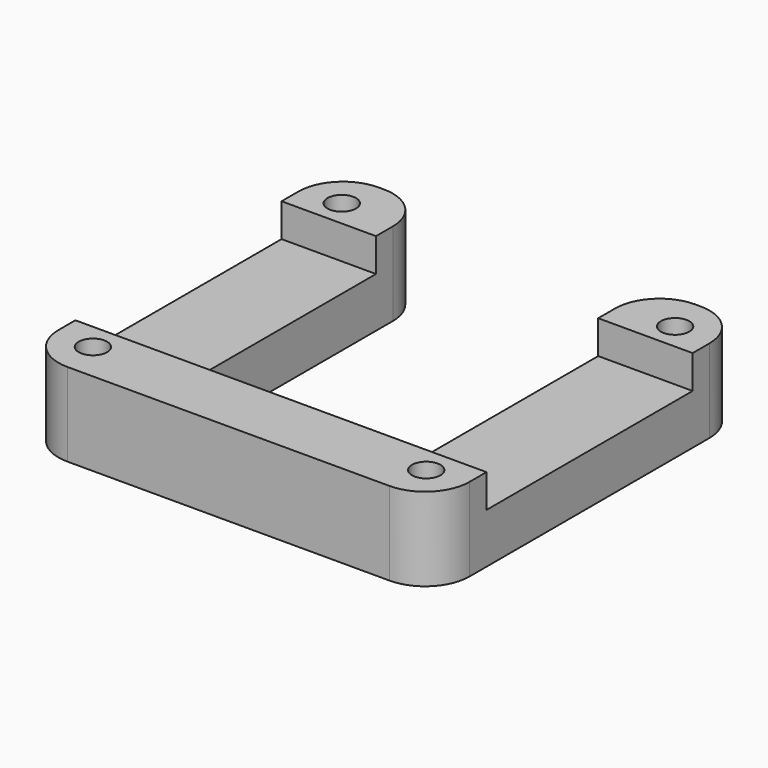
from build123d import *

# Parameters (mm, degrees)
F0_R     = 1.6256
F1_DEPTH = 9.525
F2_W     = 46.99
F2_H     = 29.464
F3_DEPTH = 3.81
F5_DEPTH = 4.064


with BuildPart() as f1:
    # F0 (on Top) → F1 (new body)
    with BuildSketch(Plane.XY):
        with BuildLine():
            ThreePointArc((23.495, 17.145), (22.007102, 20.737102), (18.415, 22.225))
            Line((18.415, 22.225), (17.78, 22.225))
            ThreePointArc((17.78, 22.225), (14.187898, 20.737102), (12.7, 17.145))
            Line((12.7, 17.145), (12.7, -10.16))
            ThreePointArc((12.7, -10.16), (11.956051, -11.956051), (10.16, -12.7))
            Line((10.16, -12.7), (-10.16, -12.7))
            ThreePointArc((-10.16, -12.7), (-11.956051, -11.956051), (-12.7, -10.16))
            Line((-12.7, -10.16), (-12.7, 17.145))
            ThreePointArc((-12.7, 17.145), (-14.187898, 20.737102), (-17.78, 22.225))
            Line((-17.78, 22.225), (-18.415, 22.225))
            ThreePointArc((-18.415, 22.225), (-22.007102, 20.737102), (-23.495, 17.145))
            Line((-23.495, 17.145), (-23.495, -17.145))
            ThreePointArc((-23.495, -17.145), (-22.007102, -20.737102), (-18.415, -22.225))
            Line((-18.415, -22.225), (18.415, -22.225))
            ThreePointArc((18.415, -22.225), (22.007102, -20.737102), (23.495, -17.145))
            Line((23.495, -17.145), (23.495, 17.145))
        make_face()
        with Locations((-19.05, -17.78)):
            Circle(F0_R, mode=Mode.SUBTRACT)
        with Locations((19.05, -17.78)):
            Circle(F0_R, mode=Mode.SUBTRACT)
        with Locations((-19.05, 17.78)):
            Circle(F0_R, mode=Mode.SUBTRACT)
        with Locations((19.05, 17.78)):
            Circle(F0_R, mode=Mode.SUBTRACT)
    extrude(amount=F1_DEPTH)

    # F2 (on face) → F3 (cut)
    with BuildSketch(Plane.XY.offset(9.525)):
        Rectangle(F2_W, F2_H)
    extrude(amount=-F3_DEPTH, mode=Mode.SUBTRACT)

    # F4 (on face) → F5 (cut)
    with BuildSketch(Plane(origin=(0, 0, 0), x_dir=(1, 0, 0), z_dir=(0, 0, -1))):
        Polygon((17.466213, -15.0368), (15.882425, -17.78), (17.466213, -20.5232), (20.633787, -20.5232), (22.217575, -17.78), (20.633787, -15.0368), align=None)
        Polygon((-17.466213, -15.0368), (-20.633787, -15.0368), (-22.217575, -17.78), (-20.633787, -20.5232), (-17.466213, -20.5232), (-15.882425, -17.78), align=None)
        Polygon((15.882425, 17.78), (17.466213, 15.0368), (20.633787, 15.0368), (22.217575, 17.78), (20.633787, 20.5232), (17.466213, 20.5232), align=None)
        Polygon((-22.217575, 17.78), (-20.633787, 15.0368), (-17.466213, 15.0368), (-15.882425, 17.78), (-17.466213, 20.5232), (-20.633787, 20.5232), align=None)
    extrude(amount=-F5_DEPTH, mode=Mode.SUBTRACT)


solid = f1.part
